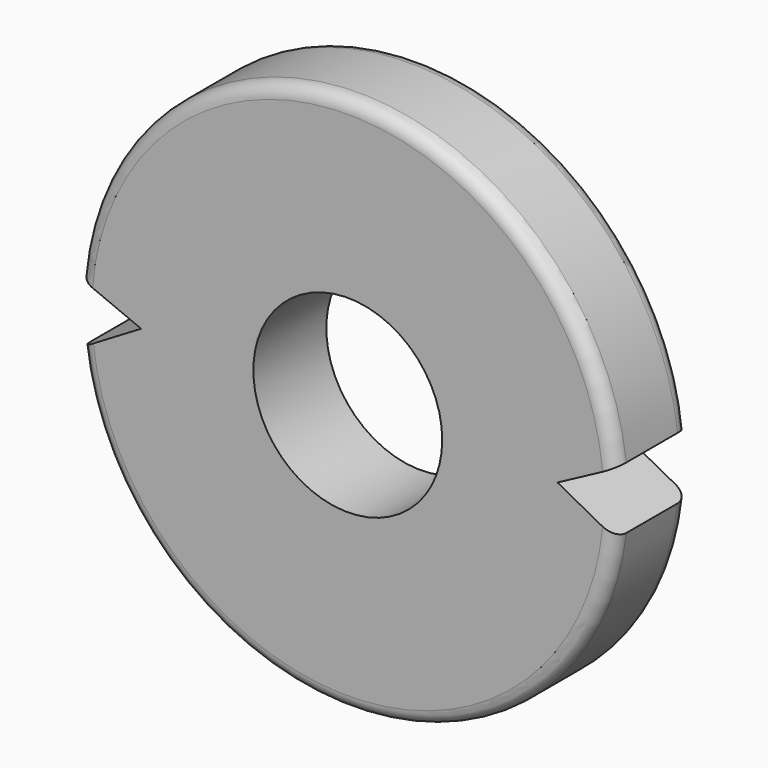
from build123d import *

# Parameters (mm, degrees)
F0_R     = 1.7399
F1_DEPTH = 0.84
F2_R     = 0.25


with BuildPart() as f1:
    # F0 (on Front) → F1 (new body, symmetric)
    with BuildSketch(Plane.XZ):
        with BuildLine():
            Line((3.8631923962, 0), (4.9327035427, 0.5715))
            ThreePointArc((4.9327035427, 0.5715), (-0.0511012475, 4.9654370555), (-4.9434205941, 0.4698609583))
            Line((-4.9434205941, 0.4698609583), (-3.8069025613, 0))
            Line((-3.8069025613, 0), (-4.9210700498, -0.6642635433))
            ThreePointArc((-4.9210700498, -0.6642635433), (0.0467450883, -4.9654799755), (4.9327035427, -0.5715))
            Line((4.9327035427, -0.5715), (3.8631923962, 0))
        make_face()
        Circle(F0_R, mode=Mode.SUBTRACT)
    extrude(amount=F1_DEPTH, both=True)

    # F2
    f2_edges = [f1.edges().sort_by_distance(p)[0] for p in [
        (0.046745, -0.84, -4.96548),
        (-0.051101, -0.84, 4.965437),
        (0.046745, 0.84, -4.96548),
        (-0.051101, 0.84, 4.965437),
    ]]
    fillet(f2_edges, radius=F2_R)


solid = f1.part
